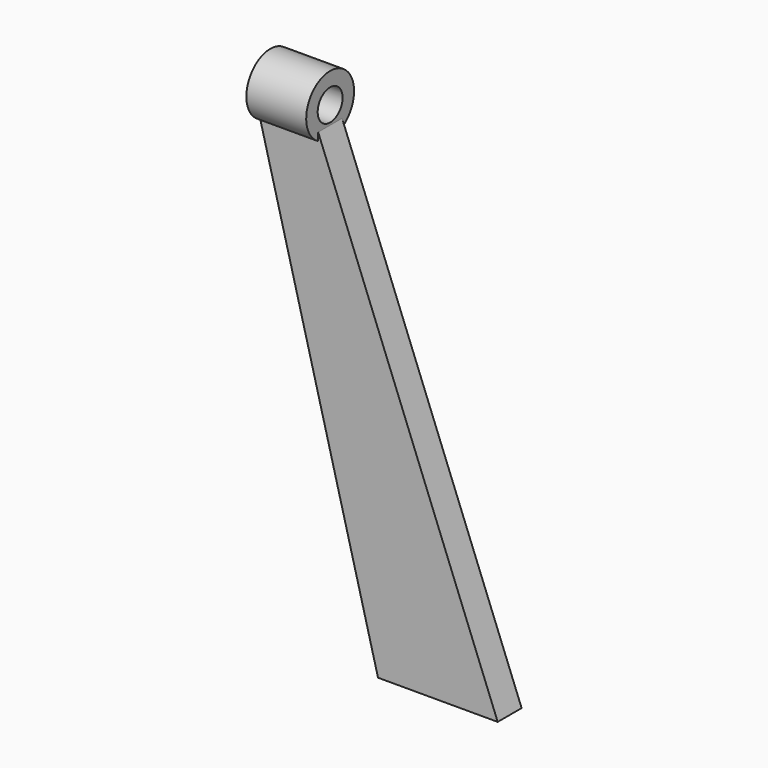
from build123d import *

# Parameters (mm, degrees)
EXTRUDE_DEPTH = 2.5
TUBE_R        = 5
TUBE_R_2      = 2.6
TUBE_DEPTH    = 10


with BuildPart() as extrude_body:
    # Sketch → Extrude (new body, symmetric)
    with BuildSketch(Plane.XZ):
        Polygon((-10, 77), (10, 0), (30, 0), (0, 77), align=None)
    extrude(amount=EXTRUDE_DEPTH, both=True)


with BuildPart() as fusion:
    # Tube → Tube (new body)
    with BuildSketch(Plane(origin=(0, 0, 80), x_dir=(0, 0, 1), z_dir=(-1, 0, 0))):
        Circle(TUBE_R)
        Circle(TUBE_R_2, mode=Mode.SUBTRACT)
    extrude(amount=TUBE_DEPTH)

    # Fusion: union Extrude body
    add(extrude_body.part)


solid = fusion.part
